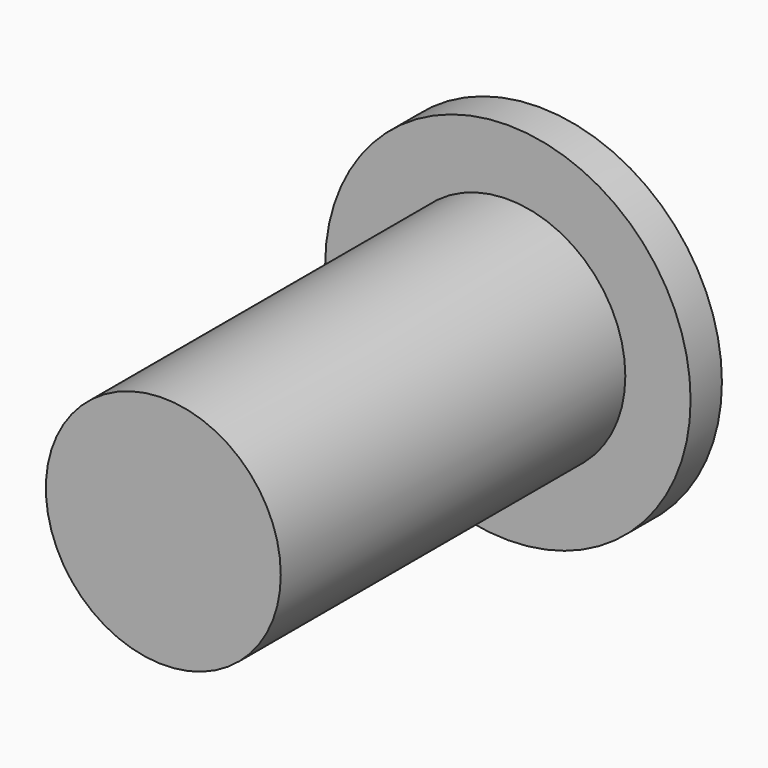
from build123d import *

# Parameters (mm, degrees)
F0_R     = 14
F0_R_2   = 9
F1_DEPTH = 3
F2_DEPTH = 27
F3_DEPTH = 2
F4_R     = 3.75
F5_DEPTH = 4
F7_R     = 9
F8_DEPTH = 9


with BuildPart() as f1:
    # F0 (on Front) → F1 (new body)
    with BuildSketch(Plane.XZ):
        Circle(F0_R)
        Circle(F0_R_2, mode=Mode.SUBTRACT)
        Circle(F0_R_2)
    extrude(amount=F1_DEPTH)

    # F0 (on Front) → F2 (join)
    with BuildSketch(Plane.XZ):
        Circle(F0_R_2)
    extrude(amount=F2_DEPTH)

    # F0 (on Front) → F3 (join)
    with BuildSketch(Plane.XZ):
        Circle(F0_R_2)
    extrude(amount=-F3_DEPTH)

    # F4 (on face) → F5 (join)
    with BuildSketch(Plane.XZ.offset(27)):
        Circle(F4_R)
    extrude(amount=F5_DEPTH)

    # F7 (on face) → F8 (join)
    with BuildSketch(Plane.XZ.offset(27)):
        Circle(F7_R)
    extrude(amount=F8_DEPTH)


solid = f1.part
